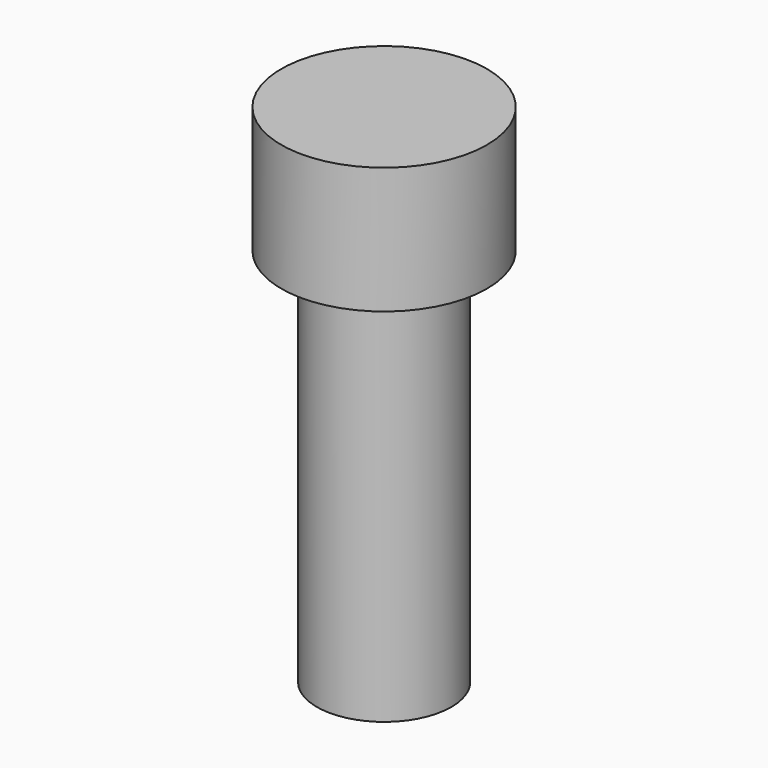
from build123d import *

# Parameters (mm, degrees)
F0_R      = 6.35
F1_DEPTH  = 0.508
F2_R      = 5.55625
F3_DEPTH  = 6.604
F4_R      = 3.5687
F5_DEPTH  = 25.4
F6_R      = 6.746875
F7_DEPTH  = 7.9375
F8_R      = 4.365625
F9_DEPTH  = 25.4
F10_R     = 7.9375
F11_DEPTH = 9.525
F12_R     = 5.159375
F13_DEPTH = 25.4
F14_R     = 10.31875
F15_DEPTH = 12.7
F16_R     = 6.746875
F17_DEPTH = 38.1


with BuildPart() as f1:
    # F0 (on Top) → F1 (new body)
    with BuildSketch(Plane.XY):
        Circle(F0_R)
    extrude(amount=-F1_DEPTH)


with BuildPart() as f3:
    # F2 (on Top) → F3 (new body)
    with BuildSketch(Plane.XY):
        Circle(F2_R)
    extrude(amount=-F3_DEPTH)

    # F4 (on face) → F5 (join)
    with BuildSketch(Plane(origin=(0, 0, -6.604), x_dir=(1, 0, 0), z_dir=(0, 0, -1))):
        Circle(F4_R)
    extrude(amount=F5_DEPTH)


with BuildPart() as f7:
    # F6 (on Top) → F7 (new body)
    with BuildSketch(Plane.XY):
        Circle(F6_R)
    extrude(amount=-F7_DEPTH)

    # F8 (on face) → F9 (join)
    with BuildSketch(Plane(origin=(0, 0, -7.9375), x_dir=(1, 0, 0), z_dir=(0, 0, -1))):
        Circle(F8_R)
    extrude(amount=F9_DEPTH)


with BuildPart() as f11:
    # F10 (on Top) → F11 (new body)
    with BuildSketch(Plane.XY):
        Circle(F10_R)
    extrude(amount=-F11_DEPTH)

    # F12 (on face) → F13 (join)
    with BuildSketch(Plane(origin=(0, 0, -9.525), x_dir=(1, 0, 0), z_dir=(0, 0, -1))):
        Circle(F12_R)
    extrude(amount=F13_DEPTH)


with BuildPart() as f15:
    # F14 (on Top) → F15 (new body)
    with BuildSketch(Plane.XY):
        Circle(F14_R)
    extrude(amount=-F15_DEPTH)

    # F16 (on face) → F17 (join)
    with BuildSketch(Plane(origin=(0, 0, -12.7), x_dir=(1, 0, 0), z_dir=(0, 0, -1))):
        Circle(F16_R)
    extrude(amount=F17_DEPTH)


solid = Compound([f1.part, f3.part, f7.part, f11.part, f15.part])
